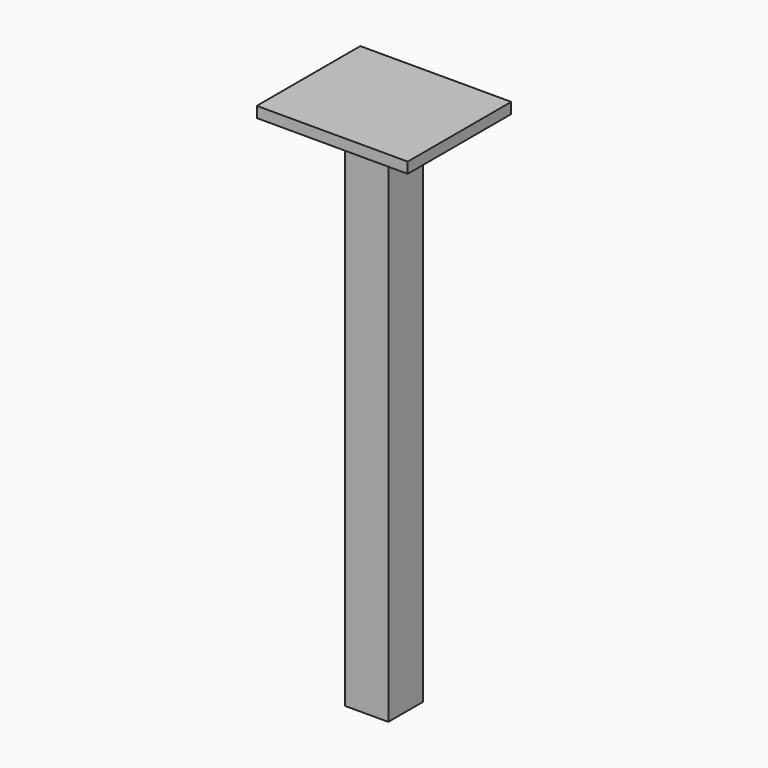
from build123d import *

# Parameters (mm, degrees)
F0_W     = 177.8
F0_H     = 152.4
F1_DEPTH = 12.7
F2_W     = 50.8
F2_H     = 50.8
F2_W_2   = 38.1
F2_H_2   = 38.1
F3_DEPTH = 609.6


with BuildPart() as f1:
    # F0 (on Top) → F1 (new body)
    with BuildSketch(Plane.XY):
        with Locations((88.9, 76.2)):
            Rectangle(F0_W, F0_H)
    extrude(amount=F1_DEPTH)

    # F2 (on face) → F3 (join)
    with BuildSketch(Plane(origin=(0, 0, 0), x_dir=(1, 0, 0), z_dir=(0, 0, -1))):
        with Locations((88.9, -76.2)):
            Rectangle(F2_W, F2_H)
        with Locations((88.9, -76.2)):
            Rectangle(F2_W_2, F2_H_2, mode=Mode.SUBTRACT)
    extrude(amount=F3_DEPTH)


solid = f1.part
